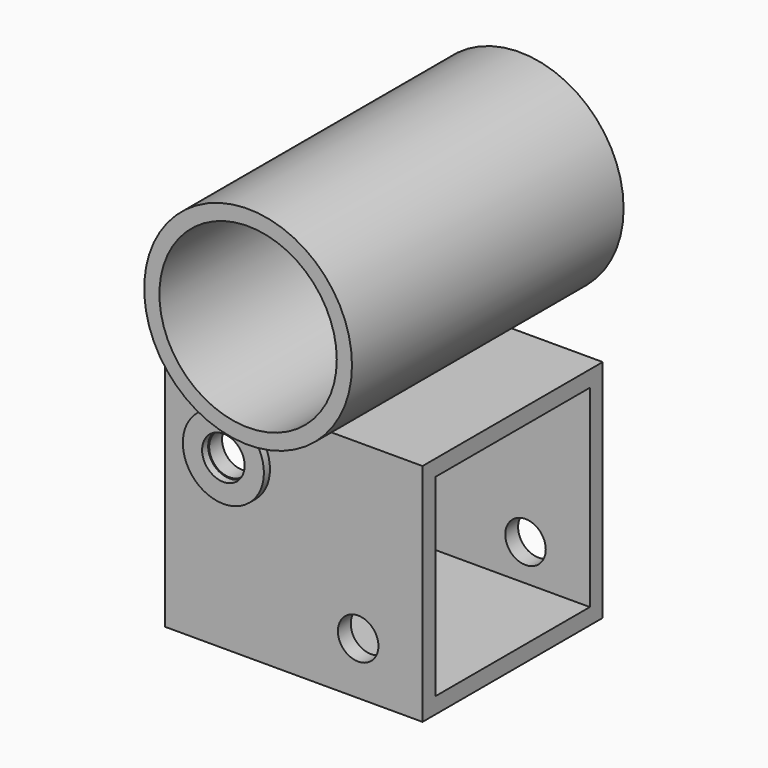
from build123d import *

# Parameters (mm, degrees)
F0_R          = 20.5
F0_R_2        = 17.5
F1_DEPTH      = 33.5
F2_W          = 44.45
F2_H          = 44.45
F2_W_2        = 38.1
F2_H_2        = 38.1
F3_DEPTH      = 25.4
F3_DEPTH_BACK = 25.4
F4_R          = 4
F5_DEPTH      = 55.726
F7_START      = 15.875
F7_DEPTH      = 6.35
F8_R          = 8
F8_R_2        = 4.2
F9_DEPTH      = 1.5


with BuildPart() as f1:
    # F0 (on Front) → F1 (new body, symmetric)
    with BuildSketch(Plane.XZ):
        Circle(F0_R)
        Circle(F0_R_2, mode=Mode.SUBTRACT)
    extrude(amount=F1_DEPTH, both=True)


with BuildPart() as f3:
    # F2 (on Right) → F3 (new body, two sides)
    with BuildSketch(Plane.YZ) as f3_sk:
        with Locations((0, -42.725)):
            Rectangle(F2_W, F2_H)
        with Locations((0, -42.725)):
            Rectangle(F2_W_2, F2_H_2, mode=Mode.SUBTRACT)
    extrude(amount=F3_DEPTH)
    extrude(f3_sk.sketch, amount=-F3_DEPTH_BACK)

    # F4 (on face) → F5 (cut, through all)
    with BuildSketch(Plane.XZ.offset(22.225)):
        with Locations((-12.7, -30.85)):
            Circle(F4_R)
        with Locations((12.7, -54.6)):
            Circle(F4_R)
    extrude(amount=-F5_DEPTH, mode=Mode.SUBTRACT)


with BuildPart() as f7:
    # F6 (on Front) → F7 (new body)
    with BuildSketch(Plane.XZ.offset(F7_START)):
        with BuildLine():
            Line((-25.4, -20.5), (0, -20.5))
            ThreePointArc((0, -20.5), (-11.4094259277, -17.0315882994), (-18.9581117203, -7.8))
            Line((-18.9581117203, -7.8), (-25.4, -7.8))
            Line((-25.4, -7.8), (-25.4, -20.5))
        make_face()
    extrude(amount=F7_DEPTH)


with BuildPart() as f9:
    # F8 (on face) → F9 (new body)
    with BuildSketch(Plane.XZ.offset(22.225)):
        with Locations((-12.7, -30.85)):
            Circle(F8_R)
        with Locations((-12.7, -30.85)):
            Circle(F8_R_2, mode=Mode.SUBTRACT)
    extrude(amount=F9_DEPTH)


solid = Compound([f1.part, f3.part, f7.part, f9.part])
